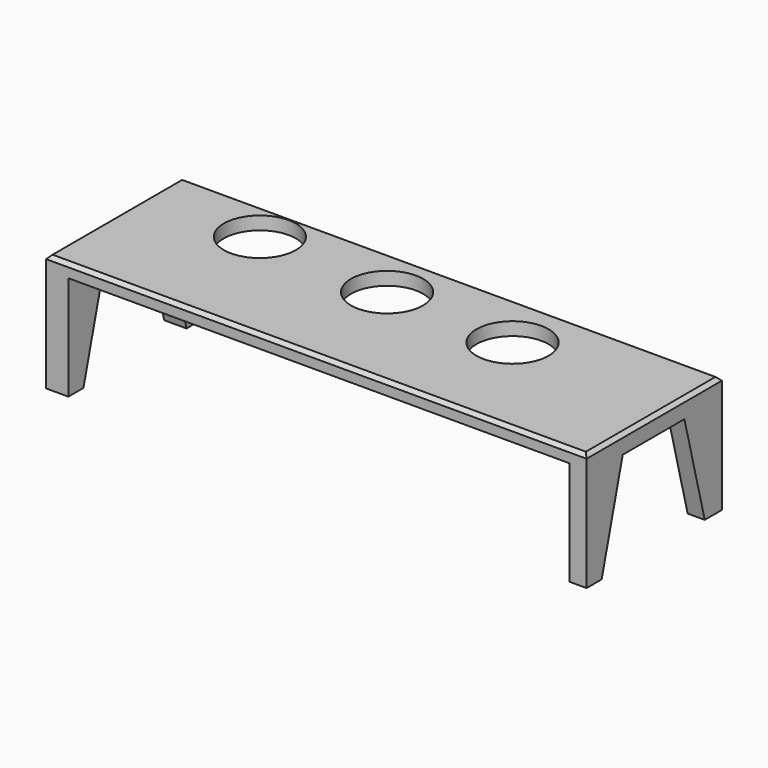
from build123d import *

# Parameters (mm, degrees)
F1_DEPTH = 381
F2_W     = 353.251727
F2_H     = 73.522702
F3_DEPTH = 119.243709
F4_SIZE  = 2.54
F6_D     = 50.8


with BuildPart() as f1:
    # F0 (on Right) → F1 (new body)
    with BuildSketch(Plane.YZ):
        Polygon((22.86, -3.707027), (40.7773, -73.522702), (55.914324, -73.522702), (55.914324, 9.267568), (-63.328385, 9.267568), (-63.328385, -73.522702), (-50.044864, -73.522702), (-31.509727, -3.707027), align=None)
    extrude(amount=F1_DEPTH)

    # F2 (on face) → F3 (cut, through all)
    with BuildSketch(Plane.XZ.offset(63.328385)):
        with Locations((192.336394, -36.761351)):
            Rectangle(F2_W, F2_H)
    extrude(amount=-F3_DEPTH, mode=Mode.SUBTRACT)

    # F4
    f4_edges = [f1.edges().sort_by_distance(p)[0] for p in [
        (381, -3.707031, 9.267568),
        (190.5, -63.328385, 9.267568),
        (190.5, 55.914324, 9.267568),
        (0, -3.707031, 9.267568),
    ]]
    chamfer(f4_edges, length=F4_SIZE)

    # F6 (through all)
    with Locations(Plane.XY.offset(9.267568)):
        with Locations((78.291252, 27.173208), (174.22092, 19.350618), (265.621692, 15.64518)):
            Hole(F6_D / 2)


solid = f1.part
